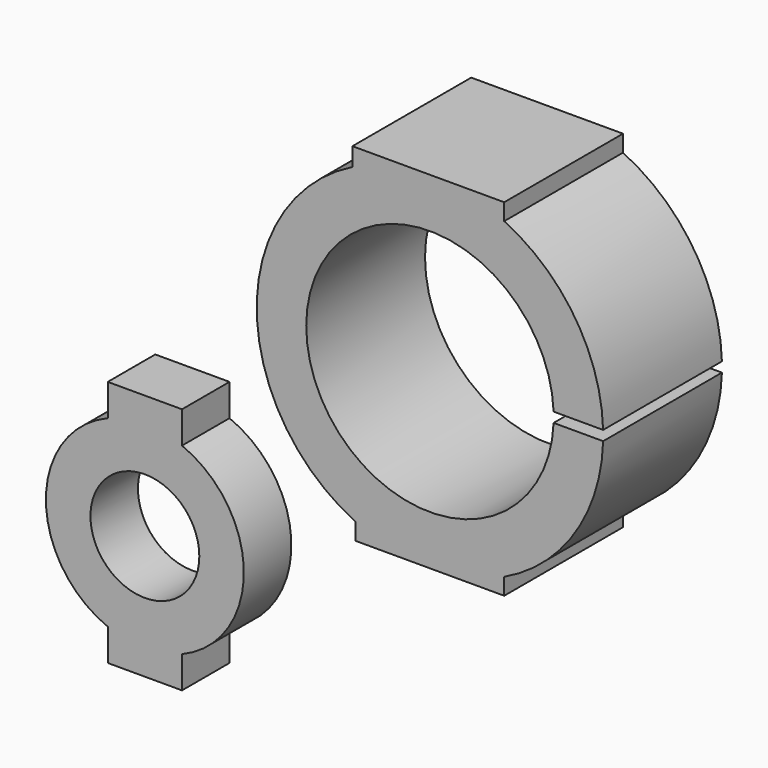
from build123d import *

# Parameters (mm, degrees)
F0_R      = 20
F0_R_2    = 11
F1_DEPTH  = 12
F3_R      = 35
F3_R_2    = 25
F4_DEPTH  = 30
F6_DEPTH  = 30
F10_DEPTH = 3
F11_DEPTH = 5
F13_DEPTH = 3
F14_DEPTH = 5
F18_DEPTH = 5
F20_DEPTH = 5


with BuildPart() as f1:
    # F0 (on Front) → F1 (new body)
    with BuildSketch(Plane.XZ):
        Circle(F0_R)
        Circle(F0_R_2, mode=Mode.SUBTRACT)
    extrude(amount=F1_DEPTH)

    # F9 (on offset) → F10 (join)
    with BuildSketch(Plane.XY.offset(20)):
        Polygon((7.5, 0), (0, 0), (-7.5, 0), (-7.5, -12), (0, -12), (7.5, -12), align=None)
    extrude(amount=-F10_DEPTH)

    # F11 (add): a face of the model
    f11_faces = [f1.faces().sort_by_distance(p)[0] for p in [
        (0, -6, 20),
    ]]
    extrude(f11_faces, amount=F11_DEPTH)

    # F12 (on offset) → F13 (join)
    with BuildSketch(Plane.XY.offset(-20)):
        Polygon((7.5, 0), (0, 0), (-7.5, 0), (-7.5, -12), (0, -12), (7.5, -12), align=None)
    extrude(amount=F13_DEPTH)

    # F14 (add): a face of the model
    f14_faces = [f1.faces().sort_by_distance(p)[0] for p in [
        (0, -6, -20),
    ]]
    extrude(f14_faces, amount=F14_DEPTH)


with BuildPart() as f4:
    # F3 (on offset) → F4 (new body)
    with BuildSketch(Plane.XZ.offset(-60)):
        Circle(F3_R)
        Circle(F3_R_2, mode=Mode.SUBTRACT)
    extrude(amount=-F4_DEPTH)

    # F5 (on face) → F6 (cut)
    with BuildSketch(Plane(origin=(0, 90, 0), x_dir=(-1, 0, 0), z_dir=(0, 1, 0))):
        with BuildLine():
            ThreePointArc((-34.9857113691, -1), (-34.99642766, -0.5000510386), (-35, 0))
            Line((-35, 0), (-35, -1))
            Line((-35, -1), (-34.9857113691, -1))
        make_face()
        with BuildLine():
            Line((-35, 1), (-35, 0))
            ThreePointArc((-35, 0), (-34.99642766, 0.5000510386), (-34.9857113691, 1))
            Line((-34.9857113691, 1), (-35, 1))
        make_face()
        with BuildLine():
            Line((-22.5752126426, 1), (-24.9799919936, 1))
            ThreePointArc((-24.9799919936, 1), (-25, 0), (-24.9799919936, -1))
            Line((-24.9799919936, -1), (-22.5752126426, -1))
            Line((-22.5752126426, -1), (-22.5752126426, 1))
        make_face()
        with BuildLine():
            ThreePointArc((-34.9857113691, 1), (-34.99642766, 0.5000510386), (-35, 0))
            ThreePointArc((-35, 0), (-34.99642766, -0.5000510386), (-34.9857113691, -1))
            Line((-34.9857113691, -1), (-24.9799919936, -1))
            ThreePointArc((-24.9799919936, -1), (-25, 0), (-24.9799919936, 1))
            Line((-24.9799919936, 1), (-34.9857113691, 1))
        make_face()
    extrude(amount=-F6_DEPTH, mode=Mode.SUBTRACT)

    # F17 (on offset) → F18 (join)
    with BuildSketch(Plane.XY.offset(-35)):
        Polygon((-15, 60), (0, 60), (15, 60), (15, 90), (0, 90), (-15, 90), align=None)
    extrude(amount=F18_DEPTH)

    # F19 (on offset) → F20 (join)
    with BuildSketch(Plane.XY.offset(35)):
        Polygon((-15.6637862306, 60), (0, 60), (15, 60), (15, 90), (0, 90), (-15.6637862306, 90), align=None)
    extrude(amount=-F20_DEPTH)


solid = Compound([f1.part, f4.part])
